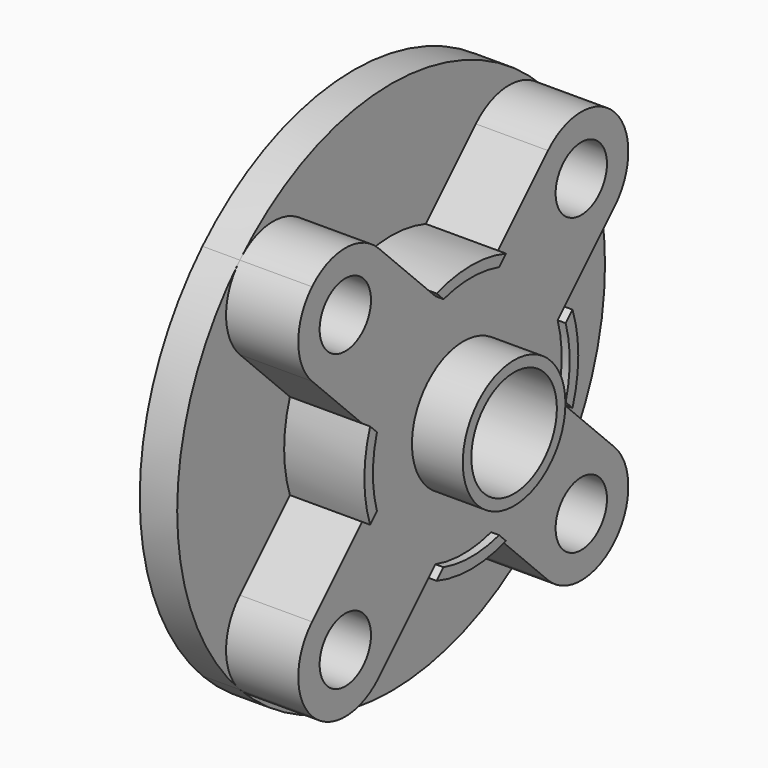
from build123d import *

# Parameters (mm, degrees)
F0_R     = 12
F0_R_2   = 10
F1_DEPTH = 30
F0_R_3   = 21
F2_DEPTH = 20.5
F3_DEPTH = 22
F0_R_4   = 6
F4_DEPTH = 20.5
F5_DEPTH = 7
F6_DEPTH = 5


with BuildPart() as f1:
    # F0 (on Right) → F1 (new body)
    with BuildSketch(Plane.YZ):
        Circle(F0_R)
        Circle(F0_R_2, mode=Mode.SUBTRACT)
    extrude(amount=F1_DEPTH)

    # F0 (on Right) → F2 (join)
    with BuildSketch(Plane.YZ):
        with BuildLine():
            ThreePointArc((-8.0963332733, 23.6526824594), (-17.6776695297, 17.6776695297), (-23.6526824594, 8.0963332733))
            Line((-23.6526824594, 8.0963332733), (-22.0610314501, 6.504682264))
            ThreePointArc((-22.0610314501, 6.504682264), (-23, -4.4e-09), (-22.0610314476, -6.5046822725))
            Line((-22.0610314476, -6.5046822725), (-23.6526824563, -8.0963332824))
            ThreePointArc((-23.6526824563, -8.0963332824), (-17.6776695229, -17.6776695365), (-8.0963332642, -23.6526824626))
            Line((-8.0963332642, -23.6526824626), (-6.5046822555, -22.0610314526))
            ThreePointArc((-6.5046822555, -22.0610314526), (7.4e-09, -23), (6.5046822697, -22.0610314485))
            Line((6.5046822697, -22.0610314485), (8.0963332794, -23.6526824574))
            ThreePointArc((8.0963332794, -23.6526824574), (17.6776695342, -17.6776695251), (23.6526824615, -8.0963332673))
            Line((23.6526824615, -8.0963332673), (22.0610314518, -6.5046822584))
            ThreePointArc((22.0610314518, -6.5046822584), (23, 4.4e-09), (22.0610314493, 6.5046822669))
            Line((22.0610314493, 6.5046822669), (23.6526824584, 8.0963332764))
            ThreePointArc((23.6526824584, 8.0963332764), (17.6776695274, 17.6776695319), (8.0963332703, 23.6526824605))
            Line((8.0963332703, 23.6526824605), (6.5046822612, 22.061031451))
            ThreePointArc((6.5046822612, 22.061031451), (-1.5e-09, 23), (-6.504682264, 22.0610314501))
            Line((-6.504682264, 22.0610314501), (-8.0963332733, 23.6526824594))
        make_face()
        Circle(F0_R_3, mode=Mode.SUBTRACT)
        Circle(F0_R_3)
        Circle(F0_R, mode=Mode.SUBTRACT)
    extrude(amount=F2_DEPTH)

    # F0 (on Right) → F3 (join)
    with BuildSketch(Plane.YZ):
        with BuildLine():
            Line((-22.0610314501, 6.504682264), (-23.6526824594, 8.0963332733))
            ThreePointArc((-23.6526824594, 8.0963332733), (-25, -4.8e-09), (-23.6526824563, -8.0963332824))
            Line((-23.6526824563, -8.0963332824), (-22.0610314476, -6.5046822725))
            ThreePointArc((-22.0610314476, -6.5046822725), (-23, -4.4e-09), (-22.0610314501, 6.504682264))
        make_face()
        with BuildLine():
            ThreePointArc((8.0963332703, 23.6526824605), (-1.6e-09, 25), (-8.0963332733, 23.6526824594))
            Line((-8.0963332733, 23.6526824594), (-6.504682264, 22.0610314501))
            ThreePointArc((-6.504682264, 22.0610314501), (-1.5e-09, 23), (6.5046822612, 22.061031451))
            Line((6.5046822612, 22.061031451), (8.0963332703, 23.6526824605))
        make_face()
        with BuildLine():
            ThreePointArc((25, 0), (24.6608704374, 4.1038359214), (23.6526824584, 8.0963332764))
            Line((23.6526824584, 8.0963332764), (22.0610314493, 6.5046822669))
            ThreePointArc((22.0610314493, 6.5046822669), (23, 4.4e-09), (22.0610314518, -6.5046822584))
            Line((22.0610314518, -6.5046822584), (23.6526824615, -8.0963332673))
            ThreePointArc((23.6526824615, -8.0963332673), (24.6608704382, -4.1038359167), (25, 0))
        make_face()
        with BuildLine():
            Line((-6.5046822555, -22.0610314526), (-8.0963332642, -23.6526824626))
            ThreePointArc((-8.0963332642, -23.6526824626), (8e-09, -25), (8.0963332794, -23.6526824574))
            Line((8.0963332794, -23.6526824574), (6.5046822697, -22.0610314485))
            ThreePointArc((6.5046822697, -22.0610314485), (7.4e-09, -23), (-6.5046822555, -22.0610314526))
        make_face()
    extrude(amount=F3_DEPTH)

    # F0 (on Right) → F4 (join, through all)
    with BuildSketch(Plane.YZ):
        with BuildLine():
            Line((-35.3553390593, 19.7989898732), (-23.6526824594, 8.0963332733))
            ThreePointArc((-23.6526824594, 8.0963332733), (-17.6776695297, 17.6776695297), (-8.0963332733, 23.6526824594))
            Line((-8.0963332733, 23.6526824594), (-19.7989898732, 35.3553390593))
            ThreePointArc((-19.7989898732, 35.3553390593), (-27.5771644248, 38.5771644663), (-35.3553390007, 35.355339118))
            ThreePointArc((-35.3553390007, 35.355339118), (-38.5771644663, 27.5771645077), (-35.3553390593, 19.7989898732))
        make_face()
        with Locations((-27.5771644663, 27.5771644663)):
            Circle(F0_R_4, mode=Mode.SUBTRACT)
        with BuildLine():
            ThreePointArc((-8.0963332642, -23.6526824626), (-17.6776695229, -17.6776695365), (-23.6526824563, -8.0963332824))
            Line((-23.6526824563, -8.0963332824), (-35.3553390517, -19.7989898868))
            ThreePointArc((-35.3553390517, -19.7989898868), (-38.5771644557, -27.5771644811), (-35.3553390457, -35.3553390729))
            ThreePointArc((-35.3553390457, -35.3553390729), (-27.5771644514, -38.5771644769), (-19.7989898596, -35.3553390669))
            Line((-19.7989898596, -35.3553390669), (-8.0963332642, -23.6526824626))
        make_face()
        with Locations((-27.5771644557, -27.5771644769)):
            Circle(F0_R_4, mode=Mode.SUBTRACT)
        with BuildLine():
            ThreePointArc((23.6526824615, -8.0963332673), (17.6776695342, -17.6776695251), (8.0963332794, -23.6526824574))
            Line((8.0963332794, -23.6526824574), (19.7989898823, -35.3553390542))
            ThreePointArc((19.7989898823, -35.3553390542), (27.5771645176, -38.5771644592), (35.355339127, -35.3553389916))
            ThreePointArc((35.355339127, -35.3553389916), (38.5771644733, -27.5771644149), (35.3553390644, -19.7989898642))
            Line((35.3553390644, -19.7989898642), (23.6526824615, -8.0963332673))
        make_face()
        with Locations((27.5771644733, -27.5771644592)):
            Circle(F0_R_4, mode=Mode.SUBTRACT)
        with BuildLine():
            Line((19.7989898687, 35.3553390619), (8.0963332703, 23.6526824605))
            ThreePointArc((8.0963332703, 23.6526824605), (17.6776695274, 17.6776695319), (23.6526824584, 8.0963332764))
            Line((23.6526824584, 8.0963332764), (35.3553390568, 19.7989898778))
            ThreePointArc((35.3553390568, 19.7989898778), (38.5771644627, 27.5771644712), (35.3553390548, 35.3553390639))
            ThreePointArc((35.3553390548, 35.3553390639), (27.5771644613, 38.5771644698), (19.7989898687, 35.3553390619))
        make_face()
        with Locations((27.5771644627, 27.5771644698)):
            Circle(F0_R_4, mode=Mode.SUBTRACT)
    extrude(amount=F4_DEPTH)

    # F0 (on Right) → F5 (join)
    with BuildSketch(Plane.YZ):
        with BuildLine():
            ThreePointArc((-23.6526824563, -8.0963332824), (-25, -4.8e-09), (-23.6526824594, 8.0963332733))
            Line((-23.6526824594, 8.0963332733), (-35.3553390593, 19.7989898732))
            ThreePointArc((-35.3553390593, 19.7989898732), (-38.5771644663, 27.5771645077), (-35.3553390007, 35.355339118))
            ThreePointArc((-35.3553390007, 35.355339118), (-50, 3.19e-08), (-35.3553390457, -35.3553390729))
            ThreePointArc((-35.3553390457, -35.3553390729), (-38.5771644557, -27.5771644811), (-35.3553390517, -19.7989898868))
            Line((-35.3553390517, -19.7989898868), (-23.6526824563, -8.0963332824))
        make_face()
        with BuildLine():
            Line((-19.7989898732, 35.3553390593), (-8.0963332733, 23.6526824594))
            ThreePointArc((-8.0963332733, 23.6526824594), (-1.6e-09, 25), (8.0963332703, 23.6526824605))
            Line((8.0963332703, 23.6526824605), (19.7989898687, 35.3553390619))
            ThreePointArc((19.7989898687, 35.3553390619), (27.5771644613, 38.5771644698), (35.3553390548, 35.3553390639))
            ThreePointArc((35.3553390548, 35.3553390639), (3.83e-08, 50), (-35.3553390007, 35.355339118))
            ThreePointArc((-35.3553390007, 35.355339118), (-27.5771644248, 38.5771644663), (-19.7989898732, 35.3553390593))
        make_face()
        with BuildLine():
            ThreePointArc((8.0963332794, -23.6526824574), (8e-09, -25), (-8.0963332642, -23.6526824626))
            Line((-8.0963332642, -23.6526824626), (-19.7989898596, -35.3553390669))
            ThreePointArc((-19.7989898596, -35.3553390669), (-27.5771644514, -38.5771644769), (-35.3553390457, -35.3553390729))
            ThreePointArc((-35.3553390457, -35.3553390729), (5.75e-08, -50), (35.355339127, -35.3553389916))
            ThreePointArc((35.355339127, -35.3553389916), (27.5771645176, -38.5771644592), (19.7989898823, -35.3553390542))
            Line((19.7989898823, -35.3553390542), (8.0963332794, -23.6526824574))
        make_face()
        with BuildLine():
            ThreePointArc((50, 0), (46.1939766243, 19.1341716212), (35.3553390548, 35.3553390639))
            ThreePointArc((35.3553390548, 35.3553390639), (38.5771644627, 27.5771644712), (35.3553390568, 19.7989898778))
            Line((35.3553390568, 19.7989898778), (23.6526824584, 8.0963332764))
            ThreePointArc((23.6526824584, 8.0963332764), (24.6608704374, 4.1038359214), (25, 0))
            ThreePointArc((25, 0), (24.6608704382, -4.1038359167), (23.6526824615, -8.0963332673))
            Line((23.6526824615, -8.0963332673), (35.3553390644, -19.7989898642))
            ThreePointArc((35.3553390644, -19.7989898642), (38.5771644733, -27.5771644149), (35.355339127, -35.3553389916))
            ThreePointArc((35.355339127, -35.3553389916), (46.1939766439, -19.134171574), (50, 0))
        make_face()
    extrude(amount=F5_DEPTH)

    # F0 (on Right) → F6 (join)
    with BuildSketch(Plane.YZ):
        with BuildLine():
            ThreePointArc((-8.0963332733, 23.6526824594), (-17.6776695297, 17.6776695297), (-23.6526824594, 8.0963332733))
            Line((-23.6526824594, 8.0963332733), (-22.0610314501, 6.504682264))
            ThreePointArc((-22.0610314501, 6.504682264), (-23, -4.4e-09), (-22.0610314476, -6.5046822725))
            Line((-22.0610314476, -6.5046822725), (-23.6526824563, -8.0963332824))
            ThreePointArc((-23.6526824563, -8.0963332824), (-17.6776695229, -17.6776695365), (-8.0963332642, -23.6526824626))
            Line((-8.0963332642, -23.6526824626), (-6.5046822555, -22.0610314526))
            ThreePointArc((-6.5046822555, -22.0610314526), (7.4e-09, -23), (6.5046822697, -22.0610314485))
            Line((6.5046822697, -22.0610314485), (8.0963332794, -23.6526824574))
            ThreePointArc((8.0963332794, -23.6526824574), (17.6776695342, -17.6776695251), (23.6526824615, -8.0963332673))
            Line((23.6526824615, -8.0963332673), (22.0610314518, -6.5046822584))
            ThreePointArc((22.0610314518, -6.5046822584), (23, 4.4e-09), (22.0610314493, 6.5046822669))
            Line((22.0610314493, 6.5046822669), (23.6526824584, 8.0963332764))
            ThreePointArc((23.6526824584, 8.0963332764), (17.6776695274, 17.6776695319), (8.0963332703, 23.6526824605))
            Line((8.0963332703, 23.6526824605), (6.5046822612, 22.061031451))
            ThreePointArc((6.5046822612, 22.061031451), (-1.5e-09, 23), (-6.504682264, 22.0610314501))
            Line((-6.504682264, 22.0610314501), (-8.0963332733, 23.6526824594))
        make_face()
        Circle(F0_R_3, mode=Mode.SUBTRACT)
        with BuildLine():
            Line((-22.0610314501, 6.504682264), (-23.6526824594, 8.0963332733))
            ThreePointArc((-23.6526824594, 8.0963332733), (-25, -4.8e-09), (-23.6526824563, -8.0963332824))
            Line((-23.6526824563, -8.0963332824), (-22.0610314476, -6.5046822725))
            ThreePointArc((-22.0610314476, -6.5046822725), (-23, -4.4e-09), (-22.0610314501, 6.504682264))
        make_face()
        with BuildLine():
            ThreePointArc((8.0963332703, 23.6526824605), (-1.6e-09, 25), (-8.0963332733, 23.6526824594))
            Line((-8.0963332733, 23.6526824594), (-6.504682264, 22.0610314501))
            ThreePointArc((-6.504682264, 22.0610314501), (-1.5e-09, 23), (6.5046822612, 22.061031451))
            Line((6.5046822612, 22.061031451), (8.0963332703, 23.6526824605))
        make_face()
        with BuildLine():
            ThreePointArc((25, 0), (24.6608704374, 4.1038359214), (23.6526824584, 8.0963332764))
            Line((23.6526824584, 8.0963332764), (22.0610314493, 6.5046822669))
            ThreePointArc((22.0610314493, 6.5046822669), (23, 4.4e-09), (22.0610314518, -6.5046822584))
            Line((22.0610314518, -6.5046822584), (23.6526824615, -8.0963332673))
            ThreePointArc((23.6526824615, -8.0963332673), (24.6608704382, -4.1038359167), (25, 0))
        make_face()
        with BuildLine():
            Line((-6.5046822555, -22.0610314526), (-8.0963332642, -23.6526824626))
            ThreePointArc((-8.0963332642, -23.6526824626), (8e-09, -25), (8.0963332794, -23.6526824574))
            Line((8.0963332794, -23.6526824574), (6.5046822697, -22.0610314485))
            ThreePointArc((6.5046822697, -22.0610314485), (7.4e-09, -23), (-6.5046822555, -22.0610314526))
        make_face()
    extrude(amount=-F6_DEPTH)


solid = f1.part
